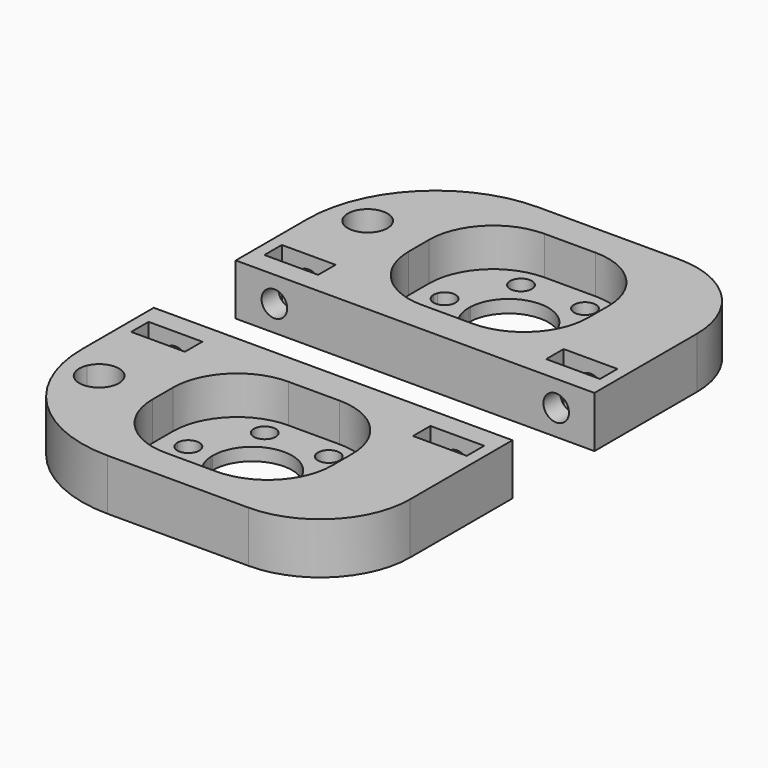
from build123d import *

# Parameters (mm, degrees)
F0_R      = 0.85
F1_DEPTH  = 4
F2_R      = 10
F3_DEPTH  = 3
F4_R      = 5
F5_R      = 7
F6_R      = 1
F7_DEPTH  = 4
F8_W      = 4.2
F8_H      = 1.7
F9_DEPTH  = 4
F11_ANGLE = 90


with BuildPart() as f1:
    # F0 (on Front) → F1 (new body)
    with BuildSketch(Plane.XZ):
        Polygon((0, 8.5), (0, 0), (28, 0), (28, 17), (0, 17), align=None)
        with BuildLine():
            ThreePointArc((4.4441371673, 8.5), (3.0157603503, 7.5518634968), (1.5873835334, 8.5))
            ThreePointArc((1.5873835334, 8.5), (2.7087457467, 10.6211534734), (4.5657603503, 9.1018634968))
            ThreePointArc((4.5657603503, 9.1018634968), (4.565229204, 9.0612892269), (4.5636361292, 9.0207427646))
            Line((4.5636361292, 9.0207427646), (7.5, 8.866854455))
            Line((7.5, 8.866854455), (7.5, 14.5))
            Line((7.5, 14.5), (21.5, 14.5))
            Line((21.5, 14.5), (21.5, 2.5))
            Line((21.5, 2.5), (7.5, 2.5))
            Line((7.5, 2.5), (7.5, 8.5))
            Line((7.5, 8.5), (4.4441371673, 8.5))
        make_face(mode=Mode.SUBTRACT)
        Polygon((0, 8.5), (0, 0), (28, 0), (28, 17), (0, 17), align=None)
        with BuildLine():
            ThreePointArc((4.4441371673, 8.5), (3.0157603503, 7.5518634968), (1.5873835334, 8.5))
            ThreePointArc((1.5873835334, 8.5), (2.7087457467, 10.6211534734), (4.5657603503, 9.1018634968))
            ThreePointArc((4.5657603503, 9.1018634968), (4.565229204, 9.0612892269), (4.5636361292, 9.0207427646))
            Line((4.5636361292, 9.0207427646), (7.5, 8.866854455))
            Line((7.5, 8.866854455), (7.5, 14.5))
            Line((7.5, 14.5), (21.5, 14.5))
            Line((21.5, 14.5), (21.5, 2.5))
            Line((21.5, 2.5), (7.5, 2.5))
            Line((7.5, 2.5), (7.5, 8.5))
            Line((7.5, 8.5), (4.4441371673, 8.5))
        make_face(mode=Mode.SUBTRACT)
        with BuildLine():
            Line((8.65, 8.5), (7.5, 8.5))
            Line((7.5, 8.5), (7.5, 2.5))
            Line((7.5, 2.5), (21.5, 2.5))
            Line((21.5, 2.5), (21.5, 14.5))
            Line((21.5, 14.5), (7.5, 14.5))
            Line((7.5, 14.5), (7.5, 8.866854455))
            Line((7.5, 8.866854455), (8.7060862677, 8.8036461521))
            ThreePointArc((8.7060862677, 8.8036461521), (9.5444855628, 9.3488351045), (10.3213042555, 8.7189961643))
            Line((10.3213042555, 8.7189961643), (11.4042484423, 8.6622414644))
            ThreePointArc((11.4042484423, 8.6622414644), (14.5811485398, 11.5989377074), (17.6, 8.5))
            ThreePointArc((17.6, 8.5), (14.5, 5.4), (11.4, 8.5))
            Line((11.4, 8.5), (10.35, 8.5))
            ThreePointArc((10.35, 8.5), (9.5, 7.65), (8.65, 8.5))
        make_face()
        with Locations((12, 4.1698729811)):
            Circle(F0_R, mode=Mode.SUBTRACT)
        with Locations((17, 4.1698729811)):
            Circle(F0_R, mode=Mode.SUBTRACT)
        with Locations((12, 12.8301270189)):
            Circle(F0_R, mode=Mode.SUBTRACT)
        with Locations((19.5, 8.5)):
            Circle(F0_R, mode=Mode.SUBTRACT)
        with Locations((17, 12.8301270189)):
            Circle(F0_R, mode=Mode.SUBTRACT)
        with BuildLine():
            Line((8.65, 8.5), (7.5, 8.5))
            Line((7.5, 8.5), (7.5, 2.5))
            Line((7.5, 2.5), (21.5, 2.5))
            Line((21.5, 2.5), (21.5, 14.5))
            Line((21.5, 14.5), (7.5, 14.5))
            Line((7.5, 14.5), (7.5, 8.866854455))
            Line((7.5, 8.866854455), (8.7060862677, 8.8036461521))
            ThreePointArc((8.7060862677, 8.8036461521), (9.5444855628, 9.3488351045), (10.3213042555, 8.7189961643))
            Line((10.3213042555, 8.7189961643), (11.4042484423, 8.6622414644))
            ThreePointArc((11.4042484423, 8.6622414644), (14.5811485398, 11.5989377074), (17.6, 8.5))
            ThreePointArc((17.6, 8.5), (14.5, 5.4), (11.4, 8.5))
            Line((11.4, 8.5), (10.35, 8.5))
            ThreePointArc((10.35, 8.5), (9.5, 7.65), (8.65, 8.5))
        make_face()
        with Locations((12, 4.1698729811)):
            Circle(F0_R, mode=Mode.SUBTRACT)
        with Locations((17, 4.1698729811)):
            Circle(F0_R, mode=Mode.SUBTRACT)
        with Locations((12, 12.8301270189)):
            Circle(F0_R, mode=Mode.SUBTRACT)
        with Locations((19.5, 8.5)):
            Circle(F0_R, mode=Mode.SUBTRACT)
        with Locations((17, 12.8301270189)):
            Circle(F0_R, mode=Mode.SUBTRACT)
        with BuildLine():
            ThreePointArc((4.5636361292, 9.0207427646), (4.5264929988, 8.7551837242), (4.4441371673, 8.5))
            Line((4.4441371673, 8.5), (7.5, 8.5))
            Line((7.5, 8.5), (7.5, 8.866854455))
            Line((7.5, 8.866854455), (4.5636361292, 9.0207427646))
        make_face()
        with BuildLine():
            Line((7.5, 8.866854455), (7.5, 8.5))
            Line((7.5, 8.5), (8.65, 8.5))
            ThreePointArc((8.65, 8.5), (8.6641391646, 8.6543912684), (8.7060862677, 8.8036461521))
            Line((8.7060862677, 8.8036461521), (7.5, 8.866854455))
        make_face()
        with BuildLine():
            ThreePointArc((10.3213042555, 8.7189961643), (10.3427955319, 8.6104341045), (10.35, 8.5))
            Line((10.35, 8.5), (11.4, 8.5))
            ThreePointArc((11.4, 8.5), (11.4010622926, 8.5811485398), (11.4042484423, 8.6622414644))
            Line((11.4042484423, 8.6622414644), (10.3213042555, 8.7189961643))
        make_face()
        with BuildLine():
            ThreePointArc((10.3213042555, 8.7189961643), (10.3427955319, 8.6104341045), (10.35, 8.5))
            Line((10.35, 8.5), (11.4, 8.5))
            ThreePointArc((11.4, 8.5), (11.4010622926, 8.5811485398), (11.4042484423, 8.6622414644))
            Line((11.4042484423, 8.6622414644), (10.3213042555, 8.7189961643))
        make_face()
    extrude(amount=F1_DEPTH)

    # F2
    f2_edges = [f1.edges().sort_by_distance(p)[0] for p in [
        (0, -2, 17),
    ]]
    fillet(f2_edges, radius=F2_R)

    # F0 (on Front) → F3 (cut)
    with BuildSketch(Plane.XZ):
        with BuildLine():
            Line((8.65, 8.5), (7.5, 8.5))
            Line((7.5, 8.5), (7.5, 2.5))
            Line((7.5, 2.5), (21.5, 2.5))
            Line((21.5, 2.5), (21.5, 14.5))
            Line((21.5, 14.5), (7.5, 14.5))
            Line((7.5, 14.5), (7.5, 8.866854455))
            Line((7.5, 8.866854455), (8.7060862677, 8.8036461521))
            ThreePointArc((8.7060862677, 8.8036461521), (9.5444855628, 9.3488351045), (10.3213042555, 8.7189961643))
            Line((10.3213042555, 8.7189961643), (11.4042484423, 8.6622414644))
            ThreePointArc((11.4042484423, 8.6622414644), (14.5811485398, 11.5989377074), (17.6, 8.5))
            ThreePointArc((17.6, 8.5), (14.5, 5.4), (11.4, 8.5))
            Line((11.4, 8.5), (10.35, 8.5))
            ThreePointArc((10.35, 8.5), (9.5, 7.65), (8.65, 8.5))
        make_face()
        with Locations((12, 4.1698729811)):
            Circle(F0_R, mode=Mode.SUBTRACT)
        with Locations((17, 4.1698729811)):
            Circle(F0_R, mode=Mode.SUBTRACT)
        with Locations((12, 12.8301270189)):
            Circle(F0_R, mode=Mode.SUBTRACT)
        with Locations((19.5, 8.5)):
            Circle(F0_R, mode=Mode.SUBTRACT)
        with Locations((17, 12.8301270189)):
            Circle(F0_R, mode=Mode.SUBTRACT)
        with BuildLine():
            Line((8.65, 8.5), (7.5, 8.5))
            Line((7.5, 8.5), (7.5, 2.5))
            Line((7.5, 2.5), (21.5, 2.5))
            Line((21.5, 2.5), (21.5, 14.5))
            Line((21.5, 14.5), (7.5, 14.5))
            Line((7.5, 14.5), (7.5, 8.866854455))
            Line((7.5, 8.866854455), (8.7060862677, 8.8036461521))
            ThreePointArc((8.7060862677, 8.8036461521), (9.5444855628, 9.3488351045), (10.3213042555, 8.7189961643))
            Line((10.3213042555, 8.7189961643), (11.4042484423, 8.6622414644))
            ThreePointArc((11.4042484423, 8.6622414644), (14.5811485398, 11.5989377074), (17.6, 8.5))
            ThreePointArc((17.6, 8.5), (14.5, 5.4), (11.4, 8.5))
            Line((11.4, 8.5), (10.35, 8.5))
            ThreePointArc((10.35, 8.5), (9.5, 7.65), (8.65, 8.5))
        make_face()
        with Locations((12, 4.1698729811)):
            Circle(F0_R, mode=Mode.SUBTRACT)
        with Locations((17, 4.1698729811)):
            Circle(F0_R, mode=Mode.SUBTRACT)
        with Locations((12, 12.8301270189)):
            Circle(F0_R, mode=Mode.SUBTRACT)
        with Locations((19.5, 8.5)):
            Circle(F0_R, mode=Mode.SUBTRACT)
        with Locations((17, 12.8301270189)):
            Circle(F0_R, mode=Mode.SUBTRACT)
        with BuildLine():
            Line((7.5, 8.866854455), (7.5, 8.5))
            Line((7.5, 8.5), (8.65, 8.5))
            ThreePointArc((8.65, 8.5), (8.6641391646, 8.6543912684), (8.7060862677, 8.8036461521))
            Line((8.7060862677, 8.8036461521), (7.5, 8.866854455))
        make_face()
        with BuildLine():
            ThreePointArc((10.3213042555, 8.7189961643), (10.3427955319, 8.6104341045), (10.35, 8.5))
            Line((10.35, 8.5), (11.4, 8.5))
            ThreePointArc((11.4, 8.5), (11.4010622926, 8.5811485398), (11.4042484423, 8.6622414644))
            Line((11.4042484423, 8.6622414644), (10.3213042555, 8.7189961643))
        make_face()
    extrude(amount=F3_DEPTH, mode=Mode.SUBTRACT)

    # F4
    f4_edges = [f1.edges().sort_by_distance(p)[0] for p in [
        (21.5, -1.5, 14.5),
        (21.5, -1.5, 2.5),
        (7.5, -1.5, 2.5),
        (7.5, -1.5, 14.5),
    ]]
    fillet(f4_edges, radius=F4_R)

    # F5
    f5_edges = [f1.edges().sort_by_distance(p)[0] for p in [
        (28, -2, 17),
    ]]
    fillet(f5_edges, radius=F5_R)

    # F6 (on face) → F7 (cut)
    with BuildSketch(Plane(origin=(0, 0, 0), x_dir=(1, 0, 0), z_dir=(0, 0, -1))):
        with Locations((3.0157603503, 2)):
            Circle(F6_R)
        with Locations((25.0157603503, 2)):
            Circle(F6_R)
    extrude(amount=-F7_DEPTH, mode=Mode.SUBTRACT)

    # F8 (on face) → F9 (cut)
    with BuildSketch(Plane.XZ.offset(4)):
        with Locations((3.0157603503, 2.5)):
            Rectangle(F8_W, F8_H)
        with Locations((25.0157603503, 2.5)):
            Rectangle(F8_W, F8_H)
    extrude(amount=-F9_DEPTH, mode=Mode.SUBTRACT)


with BuildPart() as f1_1:
    # F10: moved
    add(f1.part.moved(Location((5, 0, 0))))


with BuildPart() as f1_2:
    # F11: moved
    add(f1_1.part.rotate(Axis((19, -4, 0), (1, 0, 0)), F11_ANGLE))


with BuildPart() as f12_1:
    # F12: instance of F1
    add(f1_2.part.mirror(Plane.XZ))


solid = Compound([f1_2.part, f12_1.part])
